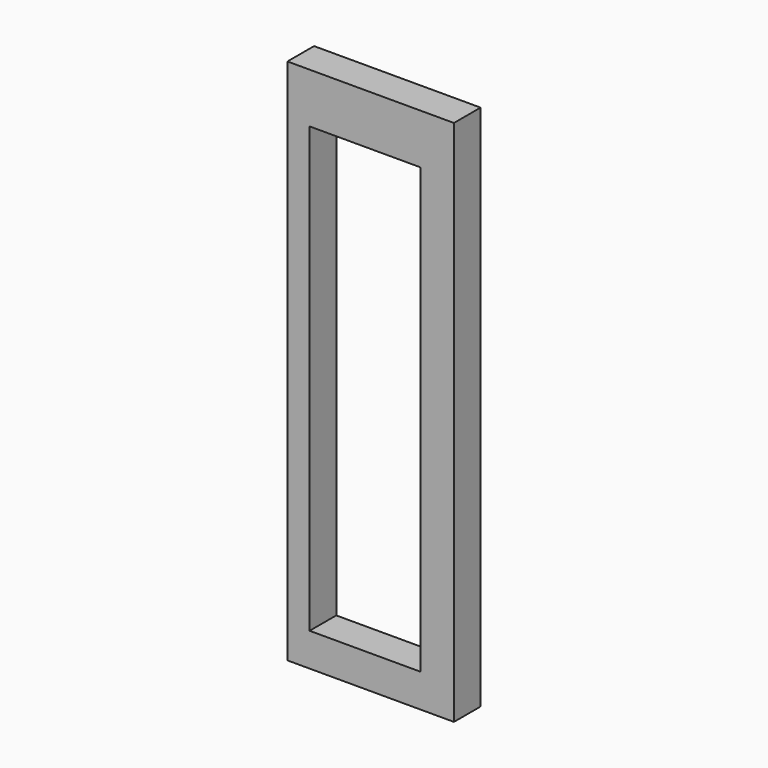
from build123d import *

# Parameters (mm, degrees)
BOX023_W     = 80
BOX023_H     = 14
BOX023_DEPTH = 20
BOX022_W     = 95
BOX022_H     = 6
BOX022_DEPTH = 30


with BuildPart() as cubo023:
    # Box023 → Box023 (new body)
    with BuildSketch(Plane(origin=(-139, -1, 26), x_dir=(0, 0, -1), z_dir=(1, 0, 0))):
        with Locations((40, 7)):
            Rectangle(BOX023_W, BOX023_H)
    extrude(amount=BOX023_DEPTH)


with BuildPart() as cut016:
    # Box022 → Box022 (new body)
    with BuildSketch(Plane(origin=(-143, 1, 35), x_dir=(0, 0, -1), z_dir=(1, 0, 0))):
        with Locations((47.5, 3)):
            Rectangle(BOX022_W, BOX022_H)
    extrude(amount=BOX022_DEPTH)

    # Cut016: cut Cubo023
    add(cubo023.part, mode=Mode.SUBTRACT)


with BuildPart() as cut016_1:
    # Cut016 placement: moved
    add(cut016.part.moved(Location((-39, -1, 12))))


solid = cut016_1.part
